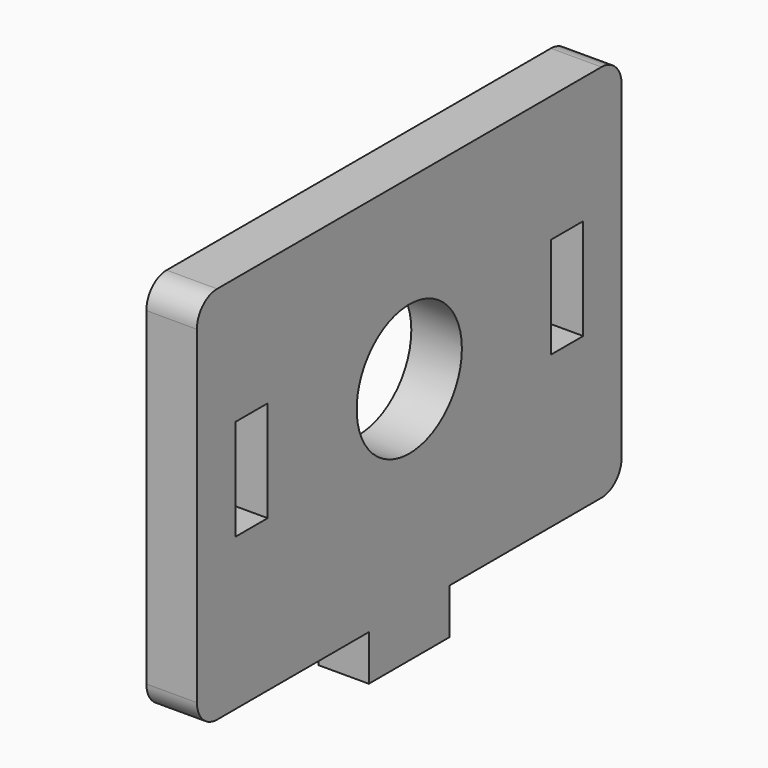
from build123d import *

# Parameters (mm, degrees)
F0_W     = 8
F0_H     = 20
F0_R     = 13
F1_DEPTH = 10


with BuildPart() as f1:
    # F0 (on Right) → F1 (new body)
    with BuildSketch(Plane.YZ):
        with BuildLine():
            ThreePointArc((-52.5, 5), (-51.035534, 1.464466), (-47.5, 0))
            Line((-47.5, 0), (-10, 0))
            Line((-10, 0), (-10, -9))
            Line((-10, -9), (10, -9))
            Line((10, -9), (10, 0))
            Line((10, 0), (47.5, 0))
            ThreePointArc((47.5, 0), (51.035534, 1.464466), (52.5, 5))
            Line((52.5, 5), (52.5, 70))
            ThreePointArc((52.5, 70), (51.035534, 73.535534), (47.5, 75))
            Line((47.5, 75), (-47.5, 75))
            ThreePointArc((-47.5, 75), (-51.035534, 73.535534), (-52.5, 70))
            Line((-52.5, 70), (-52.5, 5))
        make_face()
        with Locations((-39, 40)):
            Rectangle(F0_W, F0_H, mode=Mode.SUBTRACT)
        with Locations((0, 40)):
            Circle(F0_R, mode=Mode.SUBTRACT)
        with Locations((39, 40)):
            Rectangle(F0_W, F0_H, mode=Mode.SUBTRACT)
    extrude(amount=F1_DEPTH)


solid = f1.part
